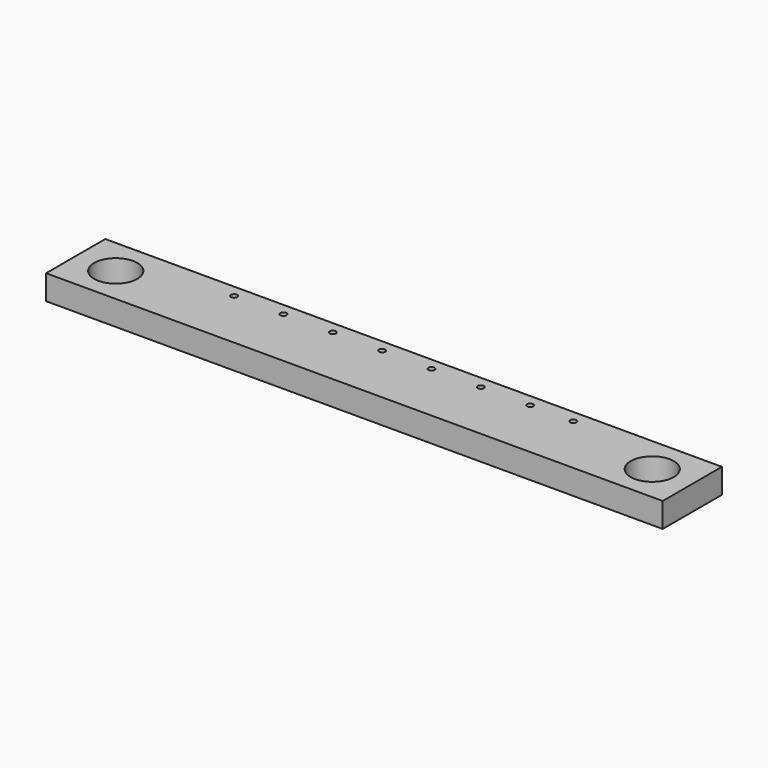
from build123d import *

# Parameters (mm, degrees)
F0_W     = 50
F0_H     = 6
F0_R     = 1.75
F1_DEPTH = 2
F2_R     = 0.25
F3_DEPTH = 2.001


with BuildPart() as f1:
    # F0 (on Top) → F1 (new body)
    with BuildSketch(Plane.XY):
        with Locations((25, 3)):
            Rectangle(F0_W, F0_H)
        with Locations((3.25, 3)):
            Circle(F0_R, mode=Mode.SUBTRACT)
        with Locations((46.75, 3)):
            Circle(F0_R, mode=Mode.SUBTRACT)
    extrude(amount=F1_DEPTH)

    # F2 (on face) → F3 (cut, through all)
    with BuildSketch(Plane.XY.offset(2)):
        with Locations((11.25, 5)):
            Circle(F2_R)
        with Locations((15.25, 5)):
            Circle(F2_R)
        with Locations((19.25, 5)):
            Circle(F2_R)
        with Locations((23.25, 5)):
            Circle(F2_R)
        with Locations((27.25, 5)):
            Circle(F2_R)
        with Locations((31.25, 5)):
            Circle(F2_R)
        with Locations((35.25, 5)):
            Circle(F2_R)
        with Locations((38.75, 5)):
            Circle(F2_R)
    extrude(amount=-F3_DEPTH, mode=Mode.SUBTRACT)


solid = f1.part
